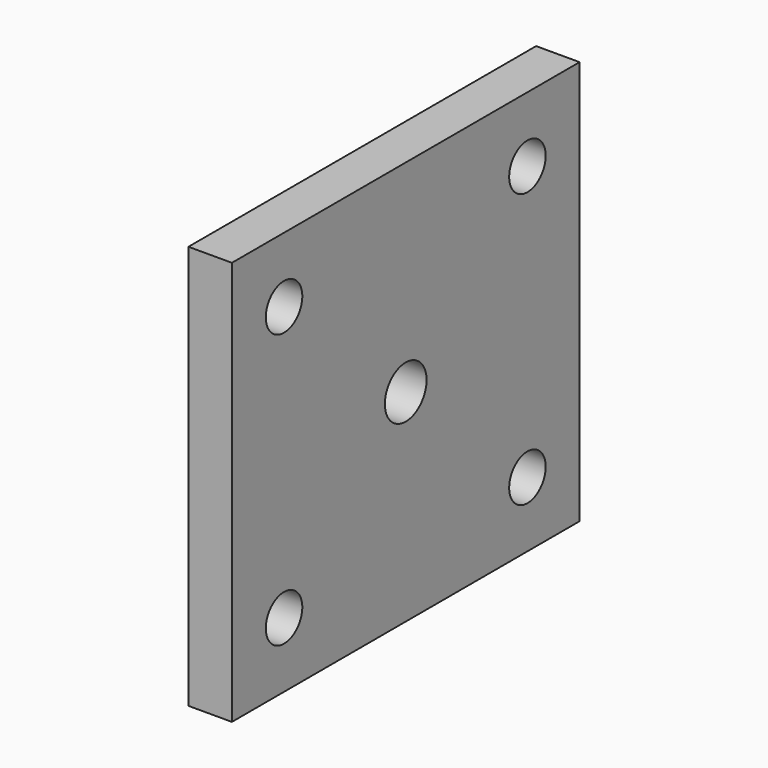
from build123d import *

# Parameters (mm, degrees)
F0_W     = 100
F0_H     = 93
F1_DEPTH = 10
F3_D     = 10.5
F4_D     = 12


with BuildPart() as f1:
    # F0 (on Right) → F1 (new body)
    with BuildSketch(Plane.YZ):
        with Locations((8.67743, 4.971333)):
            Rectangle(F0_W, F0_H)
    extrude(amount=F1_DEPTH)

    # F3 (through all)
    with Locations(Plane.YZ.offset(10)):
        with Locations((-26.32257, 36.471333), (43.67743, 36.471333), (-26.32257, -26.528667), (43.67743, -26.528667)):
            Hole(F3_D / 2)

    # F4 (through all)
    with Locations(Plane.YZ.offset(10)):
        with Locations((8.67743, 4.971333)):
            Hole(F4_D / 2)


solid = f1.part
